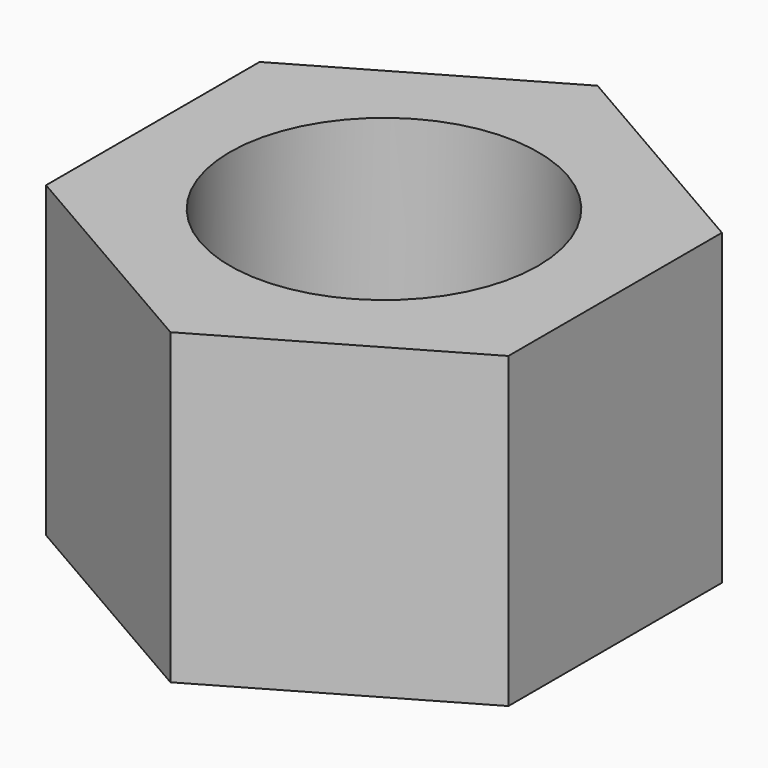
from build123d import *

# Parameters (mm, degrees)
SKETCH_R  = 3.175
PAD_DEPTH = 6.35


with BuildPart() as part:
    # Sketch → Pad (new body)
    with BuildSketch(Plane.XY):
        Polygon((4.7625, -2.749631), (4.7625, 2.749631), (0, 5.499261), (-4.7625, 2.749631), (-4.7625, -2.749631), (0, -5.499261), align=None)
        Circle(SKETCH_R, mode=Mode.SUBTRACT)
    extrude(amount=PAD_DEPTH)


solid = part.part
